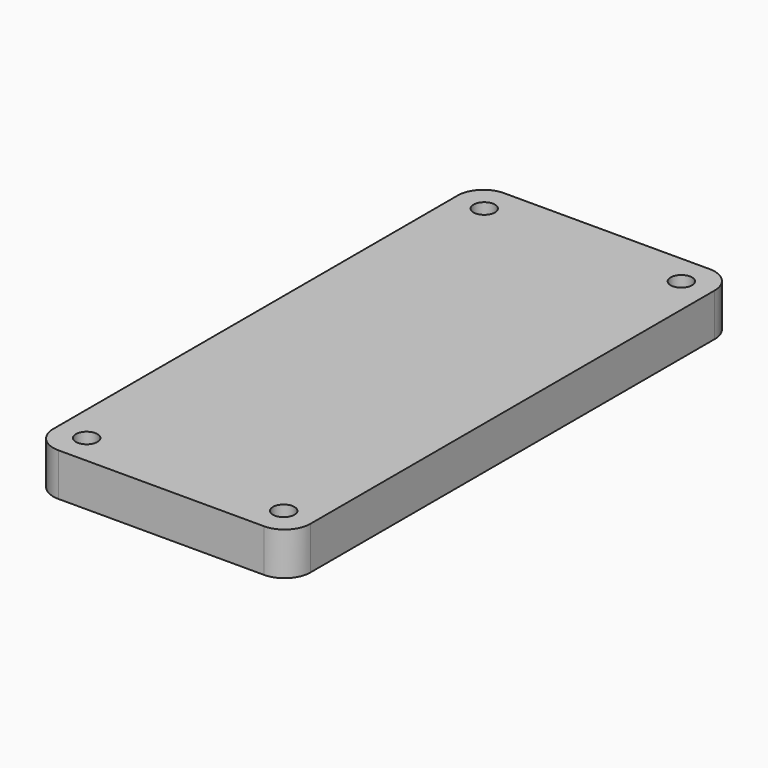
from build123d import *

# Parameters (mm, degrees)
F0_W     = 30
F0_H     = 65
F1_DEPTH = 5
F2_R     = 3
F4_D     = 2.5


with BuildPart() as f1:
    # F0 (on Top) → F1 (new body)
    with BuildSketch(Plane.XY):
        Rectangle(F0_W, F0_H)
    extrude(amount=F1_DEPTH)

    # F2
    f2_edges = [f1.edges().sort_by_distance(p)[0] for p in [
        (15, -32.5, 2.5),
        (15, 32.5, 2.5),
        (-15, -32.5, 2.5),
        (-15, 32.5, 2.5),
    ]]
    fillet(f2_edges, radius=F2_R)

    # F4 (through all)
    with Locations(Plane.XY.offset(5)):
        with Locations((-11.5, -29), (11.5, -29), (11.5, 29), (-11.5, 29)):
            Hole(F4_D / 2)


solid = f1.part
